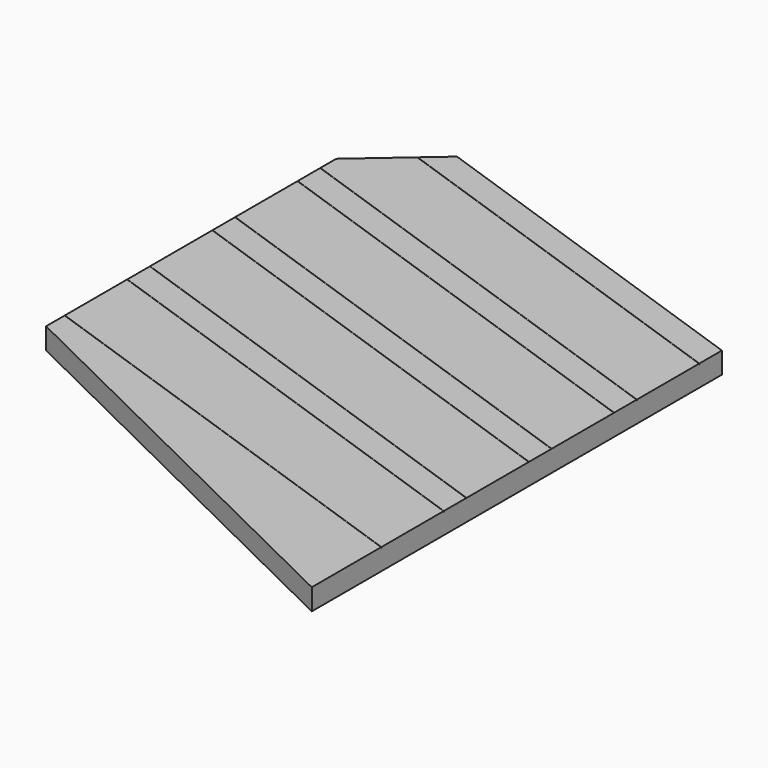
from build123d import *

# Parameters (mm, degrees)
PAD002_DEPTH    = 0.3
POCKET008_DEPTH = 0.01
POCKET009_DEPTH = 0.01


with BuildPart() as part:
    # Sketch009 (on Face1 of Binder002) → Pad002 (new body)
    with BuildSketch(Plane.XY.offset(10.4)):
        Polygon((1.7523997574, 57.5908510487), (1.7523997574, 52.4812141451), (7.92, 49.4510973901), (7.92, 56.6749555236), (2.7578069465, 58.4619401658), align=None)
    extrude(amount=PAD002_DEPTH)

    # Sketch010 (on Face7 of Pad002) → Pocket008 (cut)
    with BuildSketch(Plane.XY.offset(10.7)):
        with BuildLine():
            ThreePointArc((2.4274707916, 58.1748075445), (2.4266041369, 58.1765918899), (2.4283884823, 58.1774585447))
            Line((2.4283884823, 58.1774585447), (4.2590786033, 57.5437327043))
            Line((4.2590786033, 57.5437327043), (7.9204588453, 56.2762810237))
            ThreePointArc((7.9204588453, 56.2762810237), (7.9213255001, 56.2744966783), (7.9195411547, 56.2736300236))
            Line((4.2581609127, 57.5410817042), (7.9195411547, 56.2736300236))
            Line((2.4274707916, 58.1748075445), (4.2581609127, 57.5410817042))
        make_face()
        with BuildLine():
            ThreePointArc((7.9204588453, 50.6762810237), (7.9213255001, 50.6744966783), (7.9195411547, 50.6736300236))
            Line((7.9195411547, 50.6736300236), (5.8636744071, 51.3853047451))
            Line((5.8636744071, 51.3853047451), (1.7519409121, 52.8086541883))
            ThreePointArc((1.7519409121, 52.8086541883), (1.7510742574, 52.8104385337), (1.7528586028, 52.8113051884))
            Line((5.8645920978, 51.3879557453), (1.7528586028, 52.8113051884))
            Line((7.9204588453, 50.6762810237), (5.8645920978, 51.3879557453))
        make_face()
        with BuildLine():
            ThreePointArc((1.7519409121, 53.9086541883), (1.7510742574, 53.9104385337), (1.7528586028, 53.9113051884))
            Line((1.7528586028, 53.9113051884), (3.8087253503, 53.1996304668))
            Line((3.8087253503, 53.1996304668), (7.9204588453, 51.7762810237))
            ThreePointArc((7.9204588453, 51.7762810237), (7.9213255001, 51.7744966783), (7.9195411547, 51.7736300236))
            Line((3.8078076596, 53.1969794667), (7.9195411547, 51.7736300236))
            Line((1.7519409121, 53.9086541883), (3.8078076596, 53.1969794667))
        make_face()
        with BuildLine():
            ThreePointArc((1.7519409121, 54.3086541883), (1.7510742574, 54.3104385337), (1.7528586028, 54.3113051884))
            Line((1.7528586028, 54.3113051884), (3.8087253503, 53.5996304668))
            Line((3.8087253503, 53.5996304668), (7.9204588453, 52.1762810237))
            ThreePointArc((7.9204588453, 52.1762810237), (7.9213255001, 52.1744966783), (7.9195411547, 52.1736300236))
            Line((3.8078076596, 53.5969794667), (7.9195411547, 52.1736300236))
            Line((1.7519409121, 54.3086541883), (3.8078076596, 53.5969794667))
        make_face()
        with BuildLine():
            ThreePointArc((1.7519409121, 55.4086541883), (1.7510742574, 55.4104385337), (1.7528586028, 55.4113051884))
            Line((1.7528586028, 55.4113051884), (3.8087253503, 54.6996304668))
            Line((3.8087253503, 54.6996304668), (7.9204588453, 53.2762810237))
            ThreePointArc((7.9204588453, 53.2762810237), (7.9213255001, 53.2744966783), (7.9195411547, 53.2736300236))
            Line((3.8078076596, 54.6969794667), (7.9195411547, 53.2736300236))
            Line((1.7519409121, 55.4086541883), (3.8078076596, 54.6969794667))
        make_face()
        with BuildLine():
            ThreePointArc((1.7519409121, 55.8086541883), (1.7510742574, 55.8104385337), (1.7528586028, 55.8113051884))
            Line((1.7528586028, 55.8113051884), (3.8087253503, 55.0996304668))
            Line((3.8087253503, 55.0996304668), (7.9204588453, 53.6762810237))
            ThreePointArc((7.9204588453, 53.6762810237), (7.9213255001, 53.6744966783), (7.9195411547, 53.6736300236))
            Line((3.8078076596, 55.0969794667), (7.9195411547, 53.6736300236))
            Line((1.7519409121, 55.8086541883), (3.8078076596, 55.0969794667))
        make_face()
        with BuildLine():
            ThreePointArc((1.7519409121, 56.9086541883), (1.7510742574, 56.9104385337), (1.7528586028, 56.9113051884))
            Line((1.7528586028, 56.9113051884), (3.8087253503, 56.1996304668))
            Line((3.8087253503, 56.1996304668), (7.9204588453, 54.7762810237))
            ThreePointArc((7.9204588453, 54.7762810237), (7.9213255001, 54.7744966783), (7.9195411547, 54.7736300236))
            Line((3.8078076596, 56.1969794667), (7.9195411547, 54.7736300236))
            Line((1.7519409121, 56.9086541883), (3.8078076596, 56.1969794667))
        make_face()
        with BuildLine():
            ThreePointArc((1.7519409121, 57.3086541883), (1.7510742574, 57.3104385337), (1.7528586028, 57.3113051884))
            Line((1.7528586028, 57.3113051884), (3.8087253503, 56.5996304668))
            Line((3.8087253503, 56.5996304668), (7.9204588453, 55.1762810237))
            ThreePointArc((7.9204588453, 55.1762810237), (7.9213255001, 55.1744966783), (7.9195411547, 55.1736300236))
            Line((3.8078076596, 56.5969794667), (7.9195411547, 55.1736300236))
            Line((1.7519409121, 57.3086541883), (3.8078076596, 56.5969794667))
        make_face()
    extrude(amount=-POCKET008_DEPTH, mode=Mode.SUBTRACT)

    # Sketch010 (on Face7 of Pad002) → Pocket009 (cut)
    with BuildSketch(Plane.XY.offset(10.7)):
        with BuildLine():
            ThreePointArc((2.4274707916, 58.1748075445), (2.4266041369, 58.1765918899), (2.4283884823, 58.1774585447))
            Line((2.4283884823, 58.1774585447), (4.2590786033, 57.5437327043))
            Line((4.2590786033, 57.5437327043), (7.9204588453, 56.2762810237))
            ThreePointArc((7.9204588453, 56.2762810237), (7.9213255001, 56.2744966783), (7.9195411547, 56.2736300236))
            Line((4.2581609127, 57.5410817042), (7.9195411547, 56.2736300236))
            Line((2.4274707916, 58.1748075445), (4.2581609127, 57.5410817042))
        make_face()
        with BuildLine():
            ThreePointArc((7.9204588453, 50.6762810237), (7.9213255001, 50.6744966783), (7.9195411547, 50.6736300236))
            Line((7.9195411547, 50.6736300236), (5.8636744071, 51.3853047451))
            Line((5.8636744071, 51.3853047451), (1.7519409121, 52.8086541883))
            ThreePointArc((1.7519409121, 52.8086541883), (1.7510742574, 52.8104385337), (1.7528586028, 52.8113051884))
            Line((5.8645920978, 51.3879557453), (1.7528586028, 52.8113051884))
            Line((7.9204588453, 50.6762810237), (5.8645920978, 51.3879557453))
        make_face()
        with BuildLine():
            ThreePointArc((1.7519409121, 53.9086541883), (1.7510742574, 53.9104385337), (1.7528586028, 53.9113051884))
            Line((1.7528586028, 53.9113051884), (3.8087253503, 53.1996304668))
            Line((3.8087253503, 53.1996304668), (7.9204588453, 51.7762810237))
            ThreePointArc((7.9204588453, 51.7762810237), (7.9213255001, 51.7744966783), (7.9195411547, 51.7736300236))
            Line((3.8078076596, 53.1969794667), (7.9195411547, 51.7736300236))
            Line((1.7519409121, 53.9086541883), (3.8078076596, 53.1969794667))
        make_face()
        with BuildLine():
            ThreePointArc((1.7519409121, 54.3086541883), (1.7510742574, 54.3104385337), (1.7528586028, 54.3113051884))
            Line((1.7528586028, 54.3113051884), (3.8087253503, 53.5996304668))
            Line((3.8087253503, 53.5996304668), (7.9204588453, 52.1762810237))
            ThreePointArc((7.9204588453, 52.1762810237), (7.9213255001, 52.1744966783), (7.9195411547, 52.1736300236))
            Line((3.8078076596, 53.5969794667), (7.9195411547, 52.1736300236))
            Line((1.7519409121, 54.3086541883), (3.8078076596, 53.5969794667))
        make_face()
        with BuildLine():
            ThreePointArc((1.7519409121, 55.4086541883), (1.7510742574, 55.4104385337), (1.7528586028, 55.4113051884))
            Line((1.7528586028, 55.4113051884), (3.8087253503, 54.6996304668))
            Line((3.8087253503, 54.6996304668), (7.9204588453, 53.2762810237))
            ThreePointArc((7.9204588453, 53.2762810237), (7.9213255001, 53.2744966783), (7.9195411547, 53.2736300236))
            Line((3.8078076596, 54.6969794667), (7.9195411547, 53.2736300236))
            Line((1.7519409121, 55.4086541883), (3.8078076596, 54.6969794667))
        make_face()
        with BuildLine():
            ThreePointArc((1.7519409121, 55.8086541883), (1.7510742574, 55.8104385337), (1.7528586028, 55.8113051884))
            Line((1.7528586028, 55.8113051884), (3.8087253503, 55.0996304668))
            Line((3.8087253503, 55.0996304668), (7.9204588453, 53.6762810237))
            ThreePointArc((7.9204588453, 53.6762810237), (7.9213255001, 53.6744966783), (7.9195411547, 53.6736300236))
            Line((3.8078076596, 55.0969794667), (7.9195411547, 53.6736300236))
            Line((1.7519409121, 55.8086541883), (3.8078076596, 55.0969794667))
        make_face()
        with BuildLine():
            ThreePointArc((1.7519409121, 56.9086541883), (1.7510742574, 56.9104385337), (1.7528586028, 56.9113051884))
            Line((1.7528586028, 56.9113051884), (3.8087253503, 56.1996304668))
            Line((3.8087253503, 56.1996304668), (7.9204588453, 54.7762810237))
            ThreePointArc((7.9204588453, 54.7762810237), (7.9213255001, 54.7744966783), (7.9195411547, 54.7736300236))
            Line((3.8078076596, 56.1969794667), (7.9195411547, 54.7736300236))
            Line((1.7519409121, 56.9086541883), (3.8078076596, 56.1969794667))
        make_face()
        with BuildLine():
            ThreePointArc((1.7519409121, 57.3086541883), (1.7510742574, 57.3104385337), (1.7528586028, 57.3113051884))
            Line((1.7528586028, 57.3113051884), (3.8087253503, 56.5996304668))
            Line((3.8087253503, 56.5996304668), (7.9204588453, 55.1762810237))
            ThreePointArc((7.9204588453, 55.1762810237), (7.9213255001, 55.1744966783), (7.9195411547, 55.1736300236))
            Line((3.8078076596, 56.5969794667), (7.9195411547, 55.1736300236))
            Line((1.7519409121, 57.3086541883), (3.8078076596, 56.5969794667))
        make_face()
    extrude(amount=-POCKET009_DEPTH, mode=Mode.SUBTRACT)


solid = part.part
